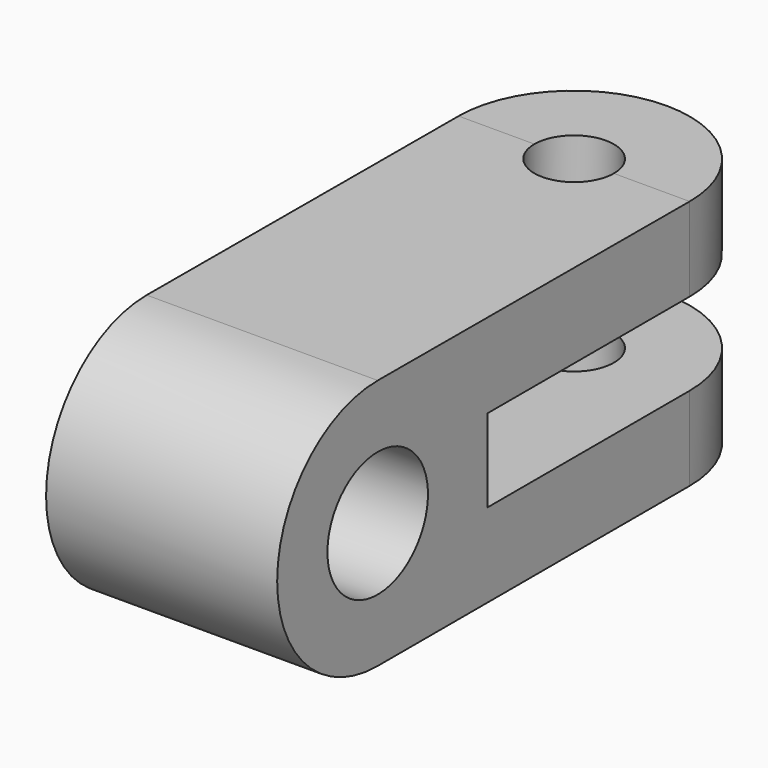
from build123d import *

# Parameters (mm, degrees)
F1_DEPTH = 40.64
F3_D     = 22.098
F5_DEPTH = 14.732
F7_DEPTH = 14.732
F9_D     = 13.97


with BuildPart() as f1:
    # F0 (on Right) → F1 (new body)
    with BuildSketch(Plane.YZ):
        with BuildLine():
            Line((68.5798105303, 21.9367931967), (0, 22.098))
            ThreePointArc((0, 22.098), (-22.098, 0), (0, -22.098))
            Line((0, -22.098), (68.5798105303, -22.098))
            Line((68.5798105303, -22.098), (68.5798105303, -7.366))
            Line((68.5798105303, -7.366), (24.1298105303, -7.366))
            Line((24.1298105303, -7.366), (24.1298105303, 7.2047931967))
            Line((24.1298105303, 7.2047931967), (68.5798105303, 7.2047931967))
            Line((68.5798105303, 7.2047931967), (68.5798105303, 21.9367931967))
        make_face()
    extrude(amount=-F1_DEPTH)

    # F3 (through all)
    with Locations(Plane.YZ):
        with Locations((0, 0)):
            Hole(F3_D / 2)

    # F4 (on face) → F5 (join)
    with BuildSketch(Plane(origin=(0, 0.0519442709, 22.0978778974), x_dir=(1, 0, 0), z_dir=(0, 0.0023506387, 0.9999972372))):
        with BuildLine():
            Line((-40.64, 68.5280555856), (0, 68.5280555856))
            ThreePointArc((0, 68.5280555856), (-20.32, 88.8480555856), (-40.64, 68.5280555856))
        make_face()
    extrude(amount=-F5_DEPTH)

    # F6 (on face) → F7 (join)
    with BuildSketch(Plane(origin=(0, 0, -22.098), x_dir=(1, 0, 0), z_dir=(0, 0, -1))):
        with BuildLine():
            ThreePointArc((-40.64, -68.5798105303), (-20.32, -88.8998105303), (0, -68.5798105303))
            Line((0, -68.5798105303), (-40.64, -68.5798105303))
        make_face()
    extrude(amount=-F7_DEPTH)

    # F9 (through all)
    with Locations(Plane(origin=(0, 0, -22.098), x_dir=(1, 0, 0), z_dir=(0, 0, -1))):
        with Locations((-20.32, -68.5798105303)):
            Hole(F9_D / 2)


solid = f1.part
